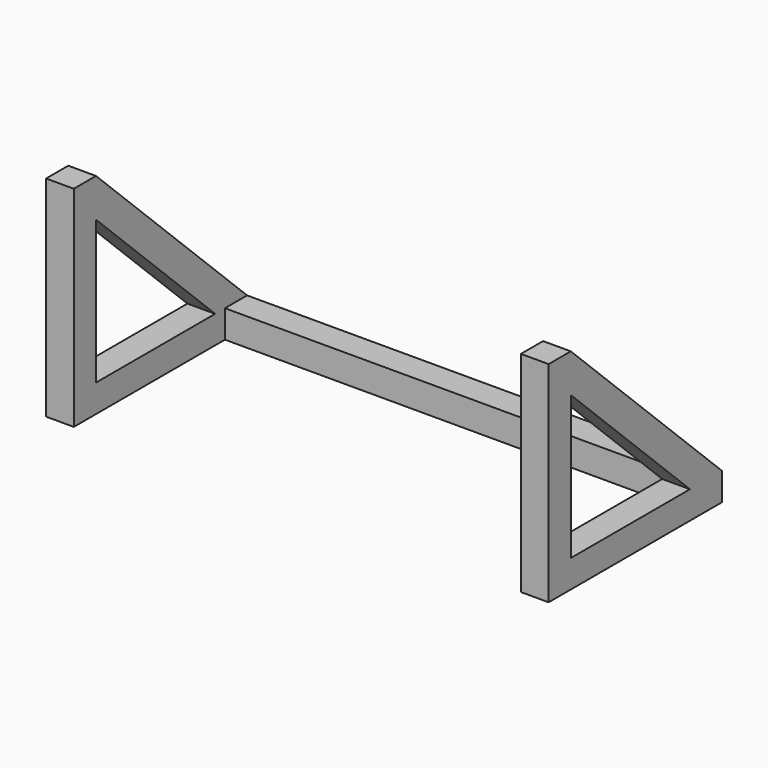
from build123d import *

# Parameters (mm, degrees)
F1_DEPTH = 3.2
F3_DEPTH = 3.2
F5_DEPTH = 3.2


with BuildPart() as f1:
    # F0 (on Top) → F1 (new body)
    with BuildSketch(Plane.XY):
        Polygon((29.8, 25), (-28.2, 25), (-28.2, 0), (-25, 0), (-25, 21.8), (26.6, 21.8), (26.6, 0), (29.8, 0), align=None)
    extrude(amount=F1_DEPTH)

    # F2 (on face) → F3 (join)
    with BuildSketch(Plane.YZ.offset(29.8)):
        Polygon((0, 24.2), (0, 3.2), (3.2, 3.2), (3.2, 19.7567770198), (3.2, 24.2), align=None)
        Polygon((3.2, 24.2), (3.2, 19.7567770198), (20.3875113824, 3.2), (25, 3.2), align=None)
    extrude(amount=-F3_DEPTH)

    # F4 (on face) → F5 (join)
    with BuildSketch(Plane(origin=(-28.2, 0, 0), x_dir=(0, -1, 0), z_dir=(-1, 0, 0))):
        Polygon((-20.3875113824, 3.2), (-3.2, 19.7567770198), (-3.2, 24.2), (-25, 3.2), align=None)
        Polygon((-3.2, 3.2), (0, 3.2), (0, 24.2), (-3.2, 24.2), (-3.2, 19.7567770198), align=None)
    extrude(amount=-F5_DEPTH)


solid = f1.part
